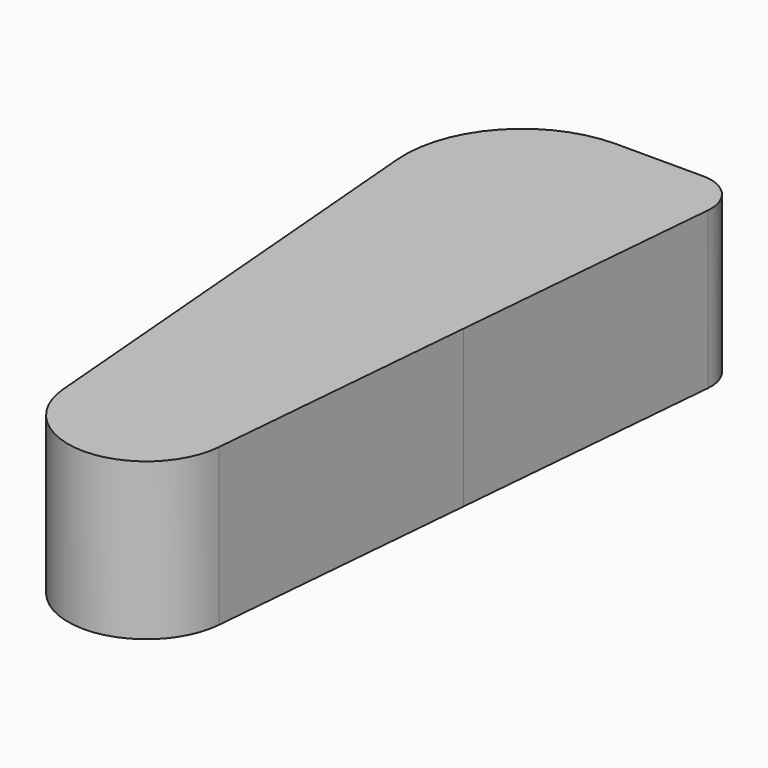
from build123d import *

# Parameters (mm, degrees)
F1_DEPTH = 25.4


with BuildPart() as f1:
    # F0 (on Top) → F1 (new body)
    with BuildSketch(Plane.XY):
        with BuildLine():
            ThreePointArc((12.381472, -0.885872), (12.417531, -0.334337), (12.429558, 0.218244))
            ThreePointArc((12.429558, 0.218244), (-0.80007, 12.907196), (-12.926268, -0.840089))
            ThreePointArc((-12.926268, -0.840089), (-0.293417, -12.481735), (12.381472, -0.885872))
        make_face()
        with BuildLine():
            ThreePointArc((-12.926268, -0.840089), (-0.80007, 12.907196), (12.429558, 0.218244))
            ThreePointArc((12.429558, 0.218244), (12.417531, -0.334337), (12.381472, -0.885872))
            Line((12.381472, -0.885872), (16.284654, 43.840157))
            ThreePointArc((16.284654, 43.840157), (12.950115, 45.454556), (11.781472, 48.970194))
            Line((11.781472, 48.970194), (15.42712, 95.27231))
            ThreePointArc((15.42712, 95.27231), (14.650608, 95.41907), (13.86188, 95.468244))
            Line((13.86188, 95.468244), (-0.270442, 95.468244))
            ThreePointArc((-0.270442, 95.468244), (-14.290863, 89.315155), (-19.254181, 74.830744))
            Line((-19.254181, 74.830744), (-12.926268, -0.840089))
        make_face()
        with BuildLine():
            ThreePointArc((11.781472, 48.970194), (12.950115, 45.454556), (16.284654, 43.840157))
            Line((16.284654, 43.840157), (20.187837, 88.566186))
            ThreePointArc((20.187837, 88.566186), (19.039792, 92.794074), (15.42712, 95.27231))
            Line((15.42712, 95.27231), (11.781472, 48.970194))
        make_face()
    extrude(amount=F1_DEPTH)


solid = f1.part
